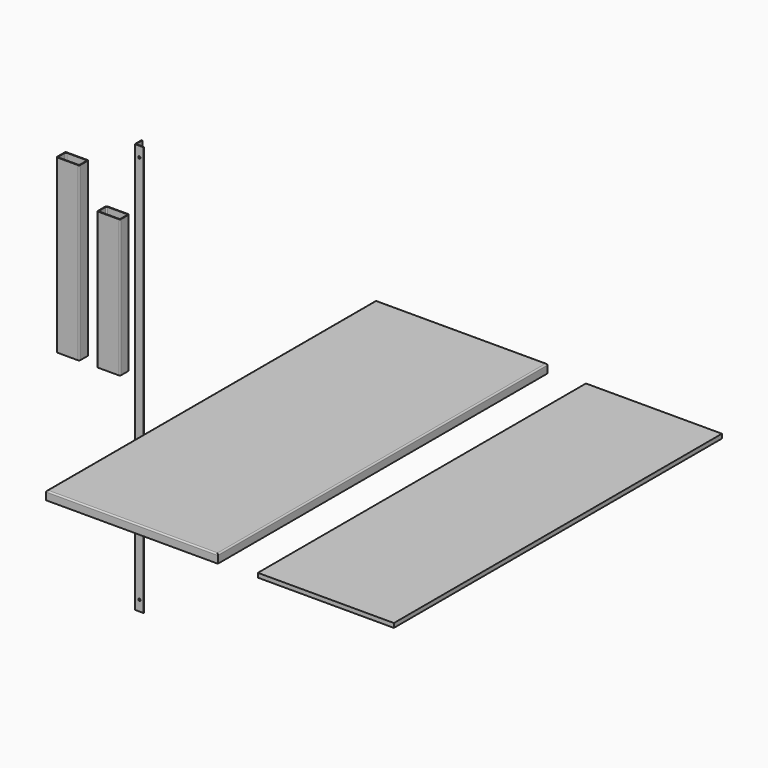
from build123d import *

# Parameters (mm, degrees)
F1_DEPTH  = 762
F3_DEPTH  = 609.6
F5_DEPTH  = 909.4
F6_W      = 762
F6_H      = 38.1
F7_DEPTH  = 914.4
F8_R      = 6
F10_R     = 5
F11_DEPTH = 330.4912731061
F12_R     = 5
F13_DEPTH = 917.576
F9_W      = 603.25
F9_H      = 19.05
F14_DEPTH = 909.4


with BuildPart() as f1:
    # F0 (on Top) → F1 (new body)
    with BuildSketch(Plane.XY):
        with BuildLine():
            ThreePointArc((-129.9768344879, 20.4), (-131.441300582, 23.9355339059), (-134.9768344879, 25.4))
            Line((-134.9768344879, 25.4), (-226.5768344879, 25.4))
            ThreePointArc((-226.5768344879, 25.4), (-230.1123683938, 23.9355339059), (-231.5768344879, 20.4))
            Line((-231.5768344879, 20.4), (-231.5768344879, -20.4))
            ThreePointArc((-231.5768344879, -20.4), (-230.1123683938, -23.9355339059), (-226.5768344879, -25.4))
            Line((-226.5768344879, -25.4), (-134.9768344879, -25.4))
            ThreePointArc((-134.9768344879, -25.4), (-131.441300582, -23.9355339059), (-129.9768344879, -20.4))
            Line((-129.9768344879, -20.4), (-129.9768344879, 20.4))
        make_face()
        with BuildLine():
            Line((-223.4018344879, 22.225), (-138.1518344879, 22.225))
            ThreePointArc((-138.1518344879, 22.225), (-134.616300582, 20.7605339059), (-133.1518344879, 17.225))
            Line((-133.1518344879, 17.225), (-133.1518344879, -17.225))
            ThreePointArc((-133.1518344879, -17.225), (-134.616300582, -20.7605339059), (-138.1518344879, -22.225))
            Line((-138.1518344879, -22.225), (-223.4018344879, -22.225))
            ThreePointArc((-223.4018344879, -22.225), (-226.9373683938, -20.7605339059), (-228.4018344879, -17.225))
            Line((-228.4018344879, -17.225), (-228.4018344879, 17.225))
            ThreePointArc((-228.4018344879, 17.225), (-226.9373683938, 20.7605339059), (-223.4018344879, 22.225))
        make_face(mode=Mode.SUBTRACT)
    extrude(amount=F1_DEPTH)


with BuildPart() as f3:
    # F2 (on Top) → F3 (new body)
    with BuildSketch(Plane.XY):
        with BuildLine():
            ThreePointArc((50.8, 20.4), (49.3355339059, 23.9355339059), (45.8, 25.4))
            Line((45.8, 25.4), (-45.8, 25.4))
            ThreePointArc((-45.8, 25.4), (-49.3355339059, 23.9355339059), (-50.8, 20.4))
            Line((-50.8, 20.4), (-50.8, -20.4))
            ThreePointArc((-50.8, -20.4), (-49.3355339059, -23.9355339059), (-45.8, -25.4))
            Line((-45.8, -25.4), (45.8, -25.4))
            ThreePointArc((45.8, -25.4), (49.3355339059, -23.9355339059), (50.8, -20.4))
            Line((50.8, -20.4), (50.8, 20.4))
        make_face()
        with BuildLine():
            Line((-42.625, 22.225), (42.625, 22.225))
            ThreePointArc((42.625, 22.225), (46.1605339059, 20.7605339059), (47.625, 17.225))
            Line((47.625, 17.225), (47.625, -17.225))
            ThreePointArc((47.625, -17.225), (46.1605339059, -20.7605339059), (42.625, -22.225))
            Line((42.625, -22.225), (-42.625, -22.225))
            ThreePointArc((-42.625, -22.225), (-46.1605339059, -20.7605339059), (-47.625, -17.225))
            Line((-47.625, -17.225), (-47.625, 17.225))
            ThreePointArc((-47.625, 17.225), (-46.1605339059, 20.7605339059), (-42.625, 22.225))
        make_face(mode=Mode.SUBTRACT)
    extrude(amount=F3_DEPTH)


with BuildPart() as f5:
    # F4 (on Top) → F5 (new body, symmetric)
    with BuildSketch(Plane.XY):
        Polygon((95.7384386182, 38.1), (95.7384386182, 0), (133.8384386182, 0), (133.8384386182, 3.175), (98.9134386182, 3.175), (98.9134386182, 38.1), align=None)
    extrude(amount=F5_DEPTH, both=True)

    # F10 (on face) → F11 (cut, through all)
    with BuildSketch(Plane.YZ.offset(98.9134386182)):
        with Locations((20.6375, 863.6)):
            Circle(F10_R)
        with Locations((20.6375, -863.6)):
            Circle(F10_R)
    extrude(amount=-F11_DEPTH, mode=Mode.SUBTRACT)

    # F12 (on face) → F13 (cut, through all)
    with BuildSketch(Plane(origin=(0, 3.175, 0), x_dir=(-1, 0, 0), z_dir=(0, 1, 0))):
        with Locations((-116.3759386182, 863.6)):
            Circle(F12_R)
        with Locations((-116.3759386182, -863.6)):
            Circle(F12_R)
    extrude(amount=-F13_DEPTH, mode=Mode.SUBTRACT)


with BuildPart() as f7:
    # F6 (on Front) → F7 (new body, symmetric)
    with BuildSketch(Plane.XZ):
        with Locations((814.880300072, 19.05)):
            Rectangle(F6_W, F6_H)
    extrude(amount=F7_DEPTH, both=True)

    # F8
    f8_edges = [f7.edges().sort_by_distance(p)[0] for p in [
        (814.8803, 914.4, 38.1),
        (433.8803, 0, 38.1),
        (814.8803, -914.4, 38.1),
        (1195.8803, 0, 38.1),
    ]]
    fillet(f8_edges, radius=F8_R)


with BuildPart() as f14:
    # F9 (on Front) → F14 (new body, symmetric)
    with BuildSketch(Plane.XZ):
        with Locations((1671.0256204605, 9.525)):
            Rectangle(F9_W, F9_H)
    extrude(amount=F14_DEPTH, both=True)


solid = Compound([f1.part, f3.part, f5.part, f7.part, f14.part])
